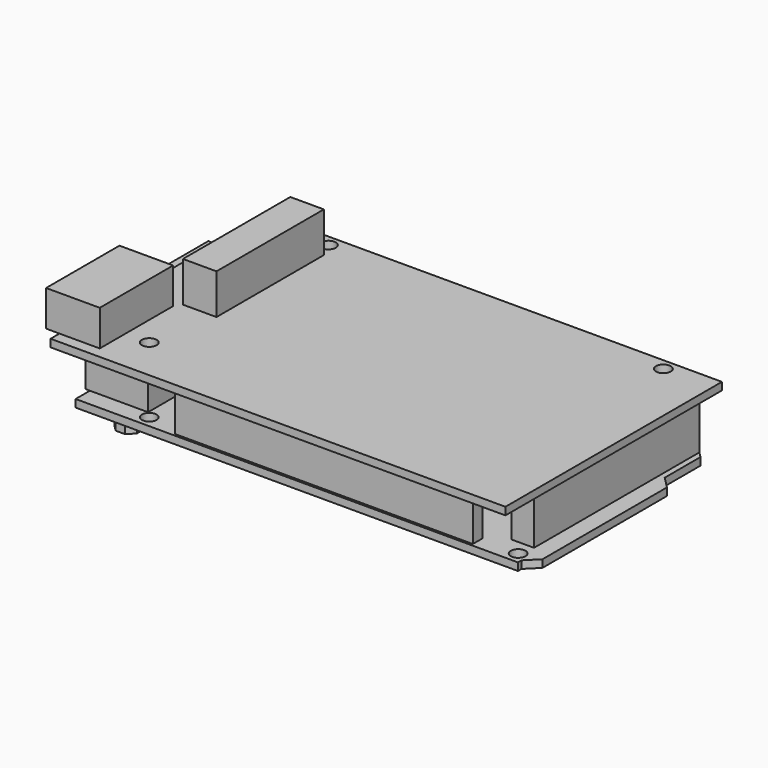
from build123d import *

# Parameters (mm, degrees)
F0_R      = 1.65
F1_DEPTH  = 1.7
F3_DEPTH  = 2.3
F4_W      = 66.6
F4_H      = 2.7
F4_W_2    = 70.5
F4_W_3    = 5
F4_H_2    = 46.2
F5_DEPTH  = 13
F4_W_4    = 10.3
F4_H_3    = 12
F4_W_5    = 6
F6_DEPTH  = 11
F4_W_6    = 13
F4_H_4    = 8
F4_W_7    = 1
F7_DEPTH  = 11
F8_W      = 9
F8_H      = 8
F9_DEPTH  = 7.9
F10_R     = 3.1
F10_R_2   = 0.5
F11_DEPTH = 4.5
F12_SIZE  = 3
F13_W     = 6
F13_H     = 3
F14_DEPTH = 7.9
F16_W     = 101.7
F16_H     = 60.5
F16_R     = 1.65
F17_DEPTH = 1.7
F18_W     = 7.5
F18_H     = 30
F19_DEPTH = 9
F18_W_2   = 9
F18_H_2   = 20.5
F18_W_3   = 3
F20_DEPTH = 8


with BuildPart() as f1:
    # F0 (on Top) → F1 (new body)
    with BuildSketch(Plane.XY):
        Polygon((96.4, 0), (0, 0), (0, -8.9), (0, -20.9), (0, -40.5), (0, -49.5), (0, -53.5), (98.9, -53.5), (98.9, -52.5), (101.5, -49.9), (101.5, -15.1), (98.9, -12.5), (98.9, -2.5), align=None)
        with Locations((14.35, -50.85)):
            Circle(F0_R, mode=Mode.SUBTRACT)
        with Locations((66.15, -45.75)):
            Circle(F0_R, mode=Mode.SUBTRACT)
        with Locations((96.8263558647, -50.85)):
            Circle(F0_R, mode=Mode.SUBTRACT)
        with Locations((15.75, -2.55)):
            Circle(F0_R, mode=Mode.SUBTRACT)
        with Locations((66.15, -17.75)):
            Circle(F0_R, mode=Mode.SUBTRACT)
        with Locations((90.65, -2.55)):
            Circle(F0_R, mode=Mode.SUBTRACT)
    extrude(amount=F1_DEPTH)

    # F2 (on face) → F3 (join)
    with BuildSketch(Plane(origin=(0, 0, 0), x_dir=(1, 0, 0), z_dir=(0, 0, -1))):
        Polygon((10.2355339059, 52.5), (8.1644660941, 52.5), (6.7, 51.0355339059), (6.7, 48.9644660941), (8.1644660941, 47.5), (10.2355339059, 47.5), (11.7, 48.9644660941), (11.7, 51.0355339059), align=None)
        Polygon((7.2355339059, 47.0147186258), (5.1644660941, 47.0147186258), (3.7, 45.5502525317), (3.7, 43.4791847198), (5.1644660941, 42.0147186258), (7.2355339059, 42.0147186258), (8.7, 43.4791847198), (8.7, 45.5502525317), align=None)
        Polygon((13.2355339059, 47.0147186258), (11.1644660941, 47.0147186258), (9.7, 45.5502525317), (9.7, 43.4791847198), (11.1644660941, 42.0147186258), (13.2355339059, 42.0147186258), (14.7, 43.4791847198), (14.7, 45.5502525317), align=None)
    extrude(amount=F3_DEPTH)

    # F4 (on face) → F5 (join)
    with BuildSketch(Plane.XY.offset(1.7)):
        with Locations((55.1, -51.65)):
            Rectangle(F4_W, F4_H)
        with Locations((53.65, -1.85)):
            Rectangle(F4_W_2, F4_H)
        with Locations((95.15, -24.35)):
            Rectangle(F4_W_3, F4_H_2)
    extrude(amount=F5_DEPTH)

    # F4 (on face) → F6 (join)
    with BuildSketch(Plane.XY.offset(1.7)):
        with Locations((5.15, -14.9)):
            Rectangle(F4_W_4, F4_H_3)
        with Locations((-3, -14.9)):
            Rectangle(F4_W_5, F4_H_3)
    extrude(amount=F6_DEPTH)

    # F4 (on face) → F7 (join)
    with BuildSketch(Plane.XY.offset(1.7)):
        with Locations((6.5, -45.5)):
            Rectangle(F4_W_6, F4_H_4)
        with Locations((-0.5, -45.5)):
            Rectangle(F4_W_7, F4_H_4)
    extrude(amount=F7_DEPTH)

    # F8 (on face) → F9 (cut)
    with BuildSketch(Plane(origin=(-6, 0, 0), x_dir=(0, -1, 0), z_dir=(-1, 0, 0))):
        with Locations((14.9, 7.2)):
            Rectangle(F8_W, F8_H)
    extrude(amount=-F9_DEPTH, mode=Mode.SUBTRACT)

    # F10 (on face) → F11 (cut)
    with BuildSketch(Plane(origin=(-1, 0, 0), x_dir=(0, -1, 0), z_dir=(-1, 0, 0))):
        with Locations((45.5, 8.7)):
            Circle(F10_R)
        with Locations((45.5, 8.7)):
            Circle(F10_R_2, mode=Mode.SUBTRACT)
    extrude(amount=-F11_DEPTH, mode=Mode.SUBTRACT)

    # F12
    f12_edges = [f1.edges().sort_by_distance(p)[0] for p in [
        (-2.05, -10.4, 11.2),
        (-2.05, -19.4, 11.2),
    ]]
    chamfer(f12_edges, length=F12_SIZE)

    # F13 (on face) → F14 (join, through all)
    with BuildSketch(Plane(origin=(1.9, 0, 0), x_dir=(0, -1, 0), z_dir=(-1, 0, 0))):
        with Locations((14.9, 7.4)):
            Rectangle(F13_W, F13_H)
    extrude(amount=F14_DEPTH)

    # F16 (on offset) → F17 (join)
    with BuildSketch(Plane.XY.offset(14.7)):
        with Locations((50.85, -30.25)):
            Rectangle(F16_W, F16_H)
        with Locations((14.35, -50.85)):
            Circle(F16_R, mode=Mode.SUBTRACT)
        with Locations((15.75, -2.55)):
            Circle(F16_R, mode=Mode.SUBTRACT)
        with Locations((90.65, -2.55)):
            Circle(F16_R, mode=Mode.SUBTRACT)
    extrude(amount=F17_DEPTH)

    # F18 (on face) → F19 (join)
    with BuildSketch(Plane.XY.offset(16.4)):
        with Locations((13.75, -21)):
            Rectangle(F18_W, F18_H)
    extrude(amount=F19_DEPTH)

    # F18 (on face) → F20 (join)
    with BuildSketch(Plane.XY.offset(16.4)):
        with Locations((4.5, -47.75)):
            Rectangle(F18_W_2, F18_H_2)
        with Locations((-1.5, -47.75)):
            Rectangle(F18_W_3, F18_H_2)
    extrude(amount=F20_DEPTH)


solid = f1.part
